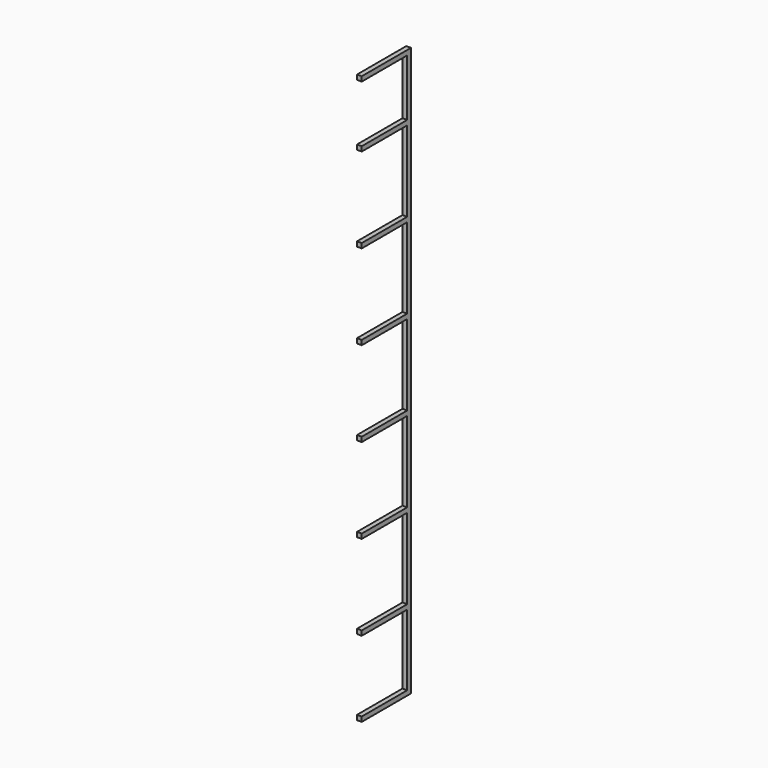
from build123d import *

# Parameters (mm, degrees)
F0_W     = 304.8
F0_H     = 25.4
F1_DEPTH = 25.4


with BuildPart() as f1:
    # F0 (on Right) → F1 (new body)
    with BuildSketch(Plane.YZ):
        Polygon((0, 3048), (-330.2, 3048), (-330.2, 3022.6), (-25.4, 3022.6), (-25.4, 2717.8), (-25.4, 2692.4), (-25.4, 2260.6), (-25.4, 2235.2), (-25.4, 1803.4), (-25.4, 1778), (-25.4, 1346.2), (-25.4, 1320.8), (-25.4, 889), (-25.4, 863.6), (-25.4, 431.8), (-25.4, 406.4), (-25.4, 25.4), (-330.2, 25.4), (-330.2, 0), (0, 0), align=None)
        with Locations((-177.8, 2705.1)):
            Rectangle(F0_W, F0_H)
        with Locations((-177.8, 2247.9)):
            Rectangle(F0_W, F0_H)
        with Locations((-177.8, 419.1)):
            Rectangle(F0_W, F0_H)
        with Locations((-177.8, 1790.7)):
            Rectangle(F0_W, F0_H)
        with Locations((-177.8, 876.3)):
            Rectangle(F0_W, F0_H)
        with Locations((-177.8, 1333.5)):
            Rectangle(F0_W, F0_H)
    extrude(amount=F1_DEPTH)


solid = f1.part
